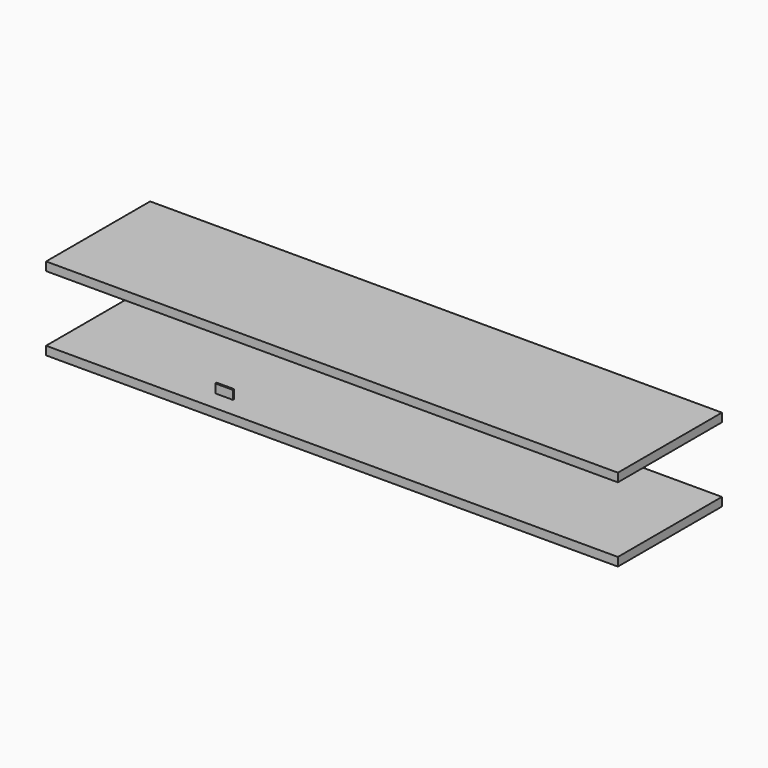
from build123d import *

# Parameters (mm, degrees)
F0_W     = 851.620108
F0_H     = 193.7004
F1_DEPTH = 12.7
F3_W     = 855.374426
F3_H     = 194.674045
F4_DEPTH = 12.7
F6_W     = 26.074476
F6_H     = 13.037239
F7_DEPTH = 2.54


with BuildPart() as f1:
    # F0 (on Top) → F1 (new body)
    with BuildSketch(Plane.XY):
        with Locations((110.758826, 96.8502)):
            Rectangle(F0_W, F0_H)
    extrude(amount=F1_DEPTH)


with BuildPart() as f2_1:
    # F2: copy of F1
    add(f1.part.moved(Location((0, 0, 110.49))))


with BuildPart() as f4:
    # F3 (on Top) → F4 (new body)
    with BuildSketch(Plane.XY):
        with Locations((110.153869, -97.337022)):
            Rectangle(F3_W, F3_H)
    extrude(amount=F4_DEPTH)


with BuildPart() as f7:
    # F6 (on Front) → F7 (new body)
    with BuildSketch(Plane.XZ):
        with Locations((-47.988713, 40.366718)):
            Rectangle(F6_W, F6_H)
    extrude(amount=F7_DEPTH)


solid = Compound([f1.part, f2_1.part, f7.part])
